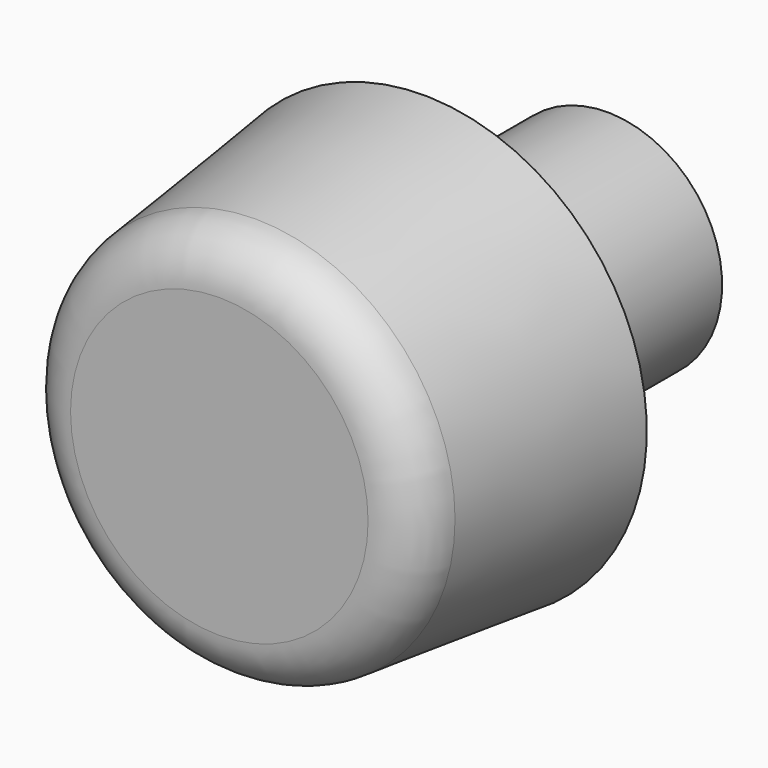
from build123d import *

# Parameters (mm, degrees)
F2_R     = 4.5
F3_DEPTH = 12
F5_DEPTH = 10


with BuildPart() as f1:
    # F0 (on Top) → F1 (revolve)
    with BuildSketch(Plane.XY):
        with BuildLine():
            Line((-6.456904, -3), (-6.75, 0))
            Line((-6.75, 0), (-8.75, 0))
            Line((-8.75, 0), (-7.816054, -8.225632))
            ThreePointArc((-7.816054, -8.225632), (-7.160877, -9.491855), (-5.828823, -10))
            Line((-5.828823, -10), (0, -10))
            Line((0, -10), (0, -3))
            Line((0, -3), (-6.456904, -3))
        make_face()
    revolve(axis=Axis((0, -5, 0), (0, -1, 0)))

    # F2 (on face) → F3 (join)
    with BuildSketch(Plane(origin=(0, -3, 0), x_dir=(-1, 0, 0), z_dir=(0, 1, 0))):
        Circle(F2_R)
    extrude(amount=F3_DEPTH)

    # F4 (on face) → F5 (cut)
    with BuildSketch(Plane(origin=(0, 9, 0), x_dir=(-1, 0, 0), z_dir=(0, 1, 0))):
        with BuildLine():
            Line((-2.50998, -1.55), (2.50998, -1.55))
            ThreePointArc((2.50998, -1.55), (0, 2.95), (-2.50998, -1.55))
        make_face()
    extrude(amount=-F5_DEPTH, mode=Mode.SUBTRACT)


solid = f1.part
